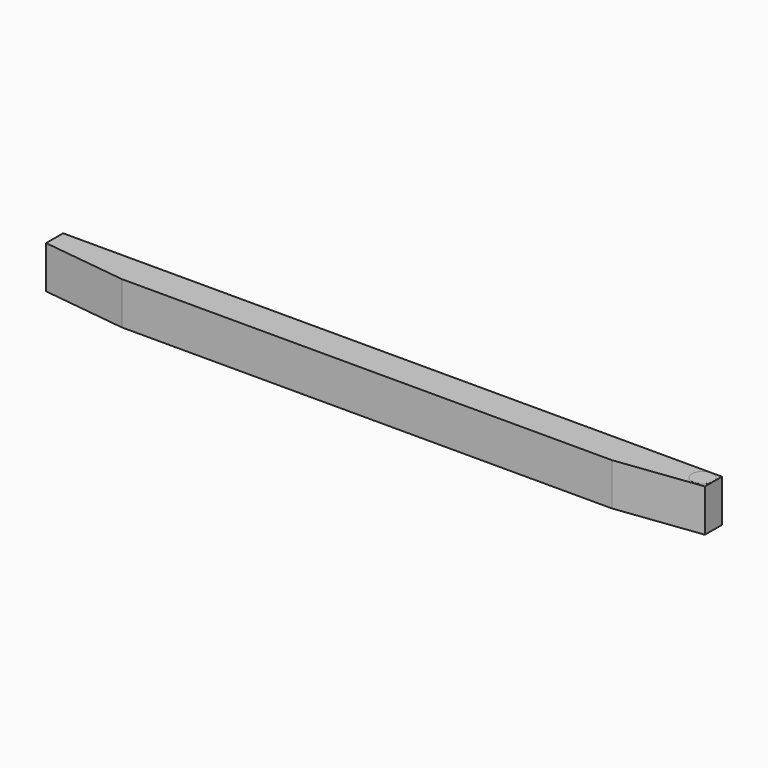
from build123d import *

# Parameters (mm, degrees)
F0_R     = 25.4
F1_DEPTH = 101.6
F2_DEPTH = 101.854


with BuildPart() as f1:
    # F0 (on Top) → F1 (new body)
    with BuildSketch(Plane.XY):
        Polygon((1574.8, 0), (0, 0), (0, -50.8), (201.6062499031, -76.2), (1373.1937500969, -76.2), (1574.8, -50.8), (1574.8, -26.67), align=None)
        with Locations((1549.4, -26.67)):
            Circle(F0_R, mode=Mode.SUBTRACT)
        with Locations((1549.4, -26.67)):
            Circle(F0_R)
    extrude(amount=F1_DEPTH)

    # F0 (on Top) → F2 (join)
    with BuildSketch(Plane.XY):
        with Locations((1549.4, -26.67)):
            Circle(F0_R)
    extrude(amount=F2_DEPTH)


solid = f1.part
